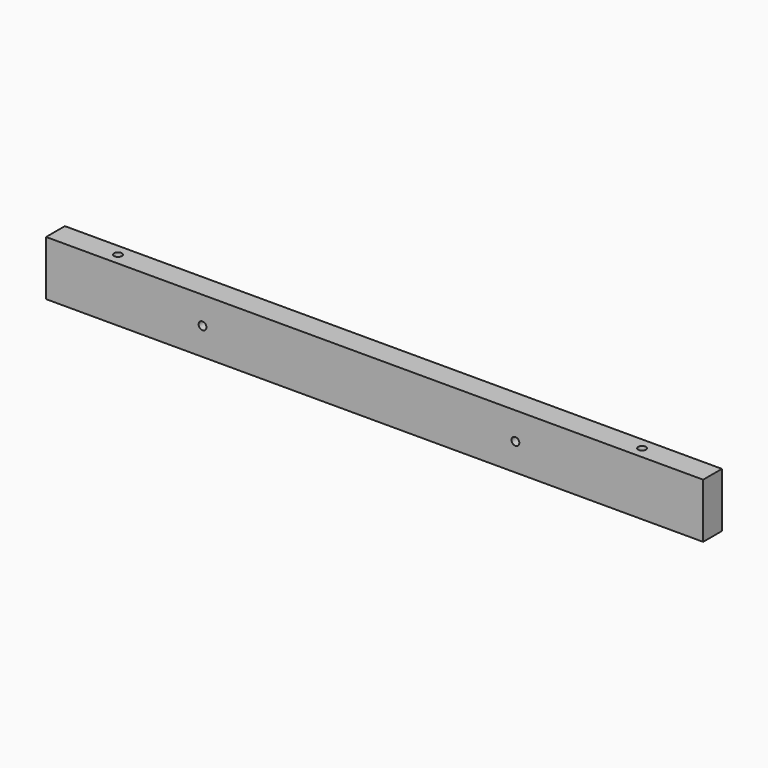
from build123d import *

# Parameters (mm, degrees)
F0_W        = 1066.8
F0_H        = 88.9
F1_DEPTH    = 19.05
F3_W        = 381
F3_H        = 88.9
F4_DEPTH    = 19.05
F10_D       = 12.7
F10_DEPTH   = 609.6
F11_D       = 12.7
F11_DEPTH   = 609.6
F13_D       = 12.7
F13_DEPTH   = 609.6
F13_2_D     = 12.7
F13_2_DEPTH = 609.6
F16_D       = 12.7
F16_DEPTH   = 609.6
F18_D       = 12.7
F18_DEPTH   = 609.6


with BuildPart() as f1:
    # F0 (on Front) → F1 (new body, symmetric)
    with BuildSketch(Plane.XZ):
        Rectangle(F0_W, F0_H)
    extrude(amount=F1_DEPTH, both=True)

    # F3 (on Front) → F4 (join, symmetric)
    with BuildSketch(Plane.XZ):
        Rectangle(F3_W, F3_H)
    extrude(amount=F4_DEPTH, both=True)

    # F11
    with Locations(Plane.XY.offset(152.4)):
        with Locations((419.1, 0)):
            Hole(F11_D / 2, depth=F11_DEPTH)

    # F13
    with Locations(Plane.XZ.offset(91.44)):
        with Locations((-279.4, 0)):
            Hole(F13_D / 2, depth=F13_DEPTH)

    # F16
    with Locations(Plane.XY.offset(152.4)):
        with Locations((-431.8, 0)):
            Hole(F16_D / 2, depth=F16_DEPTH)

    # F18
    with Locations(Plane.XZ.offset(19.05)):
        with Locations((228.6, 0)):
            Hole(F18_D / 2, depth=F18_DEPTH)


with BuildPart() as f2_1:
    # F2: copy of F1
    add(f1.part.moved(Location((0, 114.3, 0))))


with BuildPart() as f6_1:
    # F6: copy of F1
    add(f1.part.moved(Location((0, 152.4, 0))))

    # F10
    with Locations(Plane.XY.offset(152.4)):
        with Locations((419.1, 152.4)):
            Hole(F10_D / 2, depth=F10_DEPTH)

    # F13#2
    with Locations(Plane.XZ.offset(91.44)):
        with Locations((-279.4, 0)):
            Hole(F13_2_D / 2, depth=F13_2_DEPTH)


solid = f1.part
